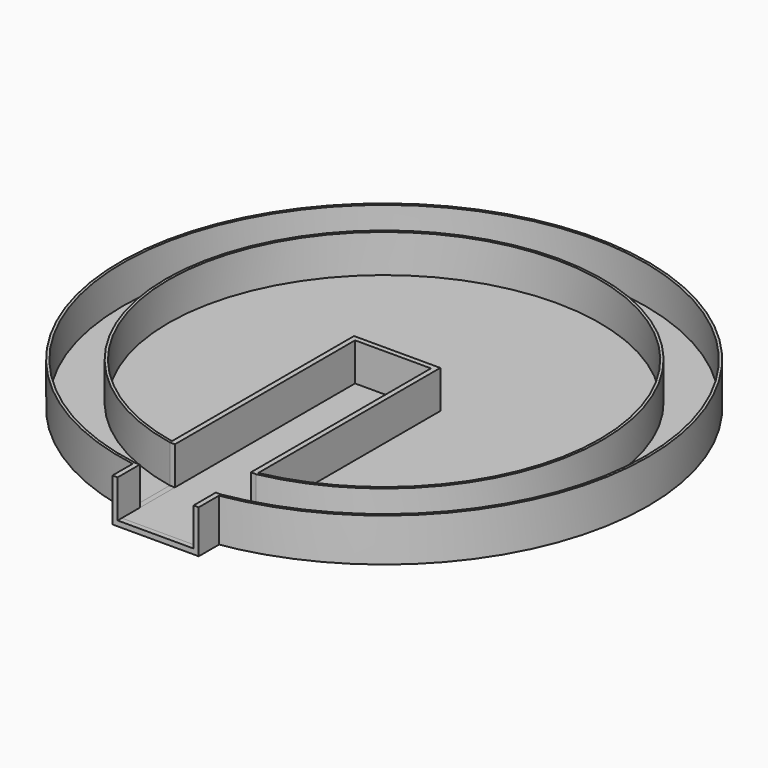
from build123d import *

# Parameters (mm, degrees)
F0_R           = 50.6
F0_R_2         = 50
F2_DEPTH       = 10
F1_R           = 50
F3_DEPTH       = 1.2
F4_R           = 61.2
F4_R_2         = 60.6
F6_DEPTH       = 10
F5_R           = 60.6
F5_R_2         = 50.6
F7_DEPTH       = 1.2
F8_W           = 20
F8_H           = 8.8
F9_DEPTH       = 80
F10_W          = 20
F10_H          = 70
F10_W_2        = 17.6
F10_H_2        = 67.6
F11_DEPTH      = 10
F12_W          = 17.6
F12_H          = 67.6
F13_DEPTH      = 1.2
F14_W          = 10.167207
F14_H          = 8.8
F15_DEPTH      = 10
F15_DEPTH_BACK = 10
F16_W          = 17.6
F16_H          = 8.8
F17_DEPTH      = 70


with BuildPart() as f2:
    # F0 (on Top) → F2 (new body)
    with BuildSketch(Plane.XY):
        Circle(F0_R)
        Circle(F0_R_2, mode=Mode.SUBTRACT)
    extrude(amount=F2_DEPTH)

    # F1 (on Top) → F3 (join)
    with BuildSketch(Plane.XY):
        Circle(F1_R)
    extrude(amount=F3_DEPTH)


with BuildPart() as f6:
    # F4 (on Top) → F6 (new body)
    with BuildSketch(Plane.XY):
        Circle(F4_R)
        Circle(F4_R_2, mode=Mode.SUBTRACT)
    extrude(amount=F6_DEPTH)


with BuildPart() as f7:
    # F5 (on Top) → F7 (new body)
    with BuildSketch(Plane.XY):
        Circle(F5_R)
        Circle(F5_R_2, mode=Mode.SUBTRACT)
    extrude(amount=F7_DEPTH)


with BuildPart() as f9_tool:
    # F8 (on Front) → F9 (new body)
    with BuildSketch(Plane.XZ):
        with Locations((0, 5.6)):
            Rectangle(F8_W, F8_H)
    extrude(amount=F9_DEPTH)


with BuildPart() as f2_1:
    add(f2.part)

    # F9: cut by f9_tool
    add(f9_tool.part, mode=Mode.SUBTRACT)


with BuildPart() as f6_1:
    add(f6.part)

    # F9: cut by f9_tool
    add(f9_tool.part, mode=Mode.SUBTRACT)


with BuildPart() as f11:
    # F10 (on Top) → F11 (new body)
    with BuildSketch(Plane.XY):
        with Locations((0, -31.217196)):
            Rectangle(F10_W, F10_H)
        with Locations((0, -31.217196)):
            Rectangle(F10_W_2, F10_H_2, mode=Mode.SUBTRACT)
    extrude(amount=F11_DEPTH)

    # F14 (on Right) → F15 (cut, two sides)
    with BuildSketch(Plane.YZ) as f15_sk:
        with Locations((-54.68562, 5.6)):
            Rectangle(F14_W, F14_H)
    extrude(amount=F15_DEPTH, mode=Mode.SUBTRACT)
    extrude(f15_sk.sketch, amount=-F15_DEPTH_BACK, mode=Mode.SUBTRACT)

    # F16 (on Front) → F17 (cut)
    with BuildSketch(Plane.XZ):
        with Locations((0, 5.6)):
            Rectangle(F16_W, F16_H)
    extrude(amount=F17_DEPTH, mode=Mode.SUBTRACT)


with BuildPart() as f13:
    # F12 (on Top) → F13 (new body)
    with BuildSketch(Plane.XY):
        with Locations((0, -31.217196)):
            Rectangle(F12_W, F12_H)
    extrude(amount=F13_DEPTH)


solid = Compound([f7.part, f2_1.part, f6_1.part, f11.part, f13.part])
